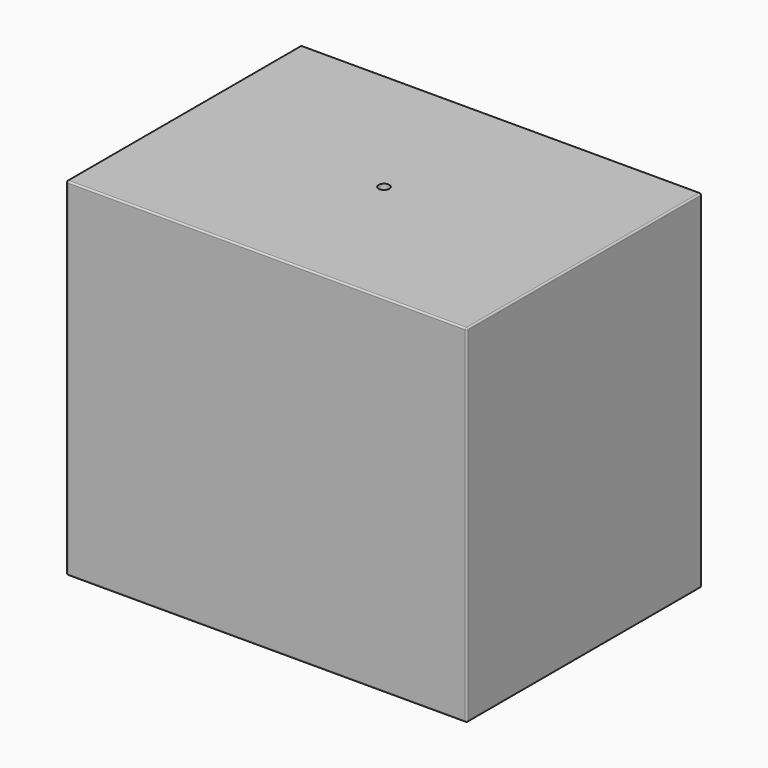
from build123d import *

# Parameters (mm, degrees)
F0_W     = 150
F0_H     = 110
F1_DEPTH = 130
F2_R     = 2
F3_DEPTH = 130
F4_R     = 0.6


with BuildPart() as f1:
    # F0 (on Top) → F1 (new body)
    with BuildSketch(Plane.XY):
        with Locations((75, 55)):
            Rectangle(F0_W, F0_H)
    extrude(amount=F1_DEPTH)

    # F2 (on face) → F3 (cut)
    with BuildSketch(Plane.XY.offset(130)):
        with Locations((75, 55)):
            Circle(F2_R)
    extrude(amount=-F3_DEPTH, mode=Mode.SUBTRACT)

    # F4
    f4_edges = [f1.edges().sort_by_distance(p)[0] for p in [
        (75, 110, 130),
        (0, 55, 130),
        (150, 110, 65),
        (0, 110, 65),
        (75, 110, 0),
        (150, 0, 65),
        (150, 55, 0),
        (150, 55, 130),
        (0, 0, 65),
        (75, 0, 0),
        (75, 0, 130),
        (0, 55, 0),
    ]]
    fillet(f4_edges, radius=F4_R)


solid = f1.part
